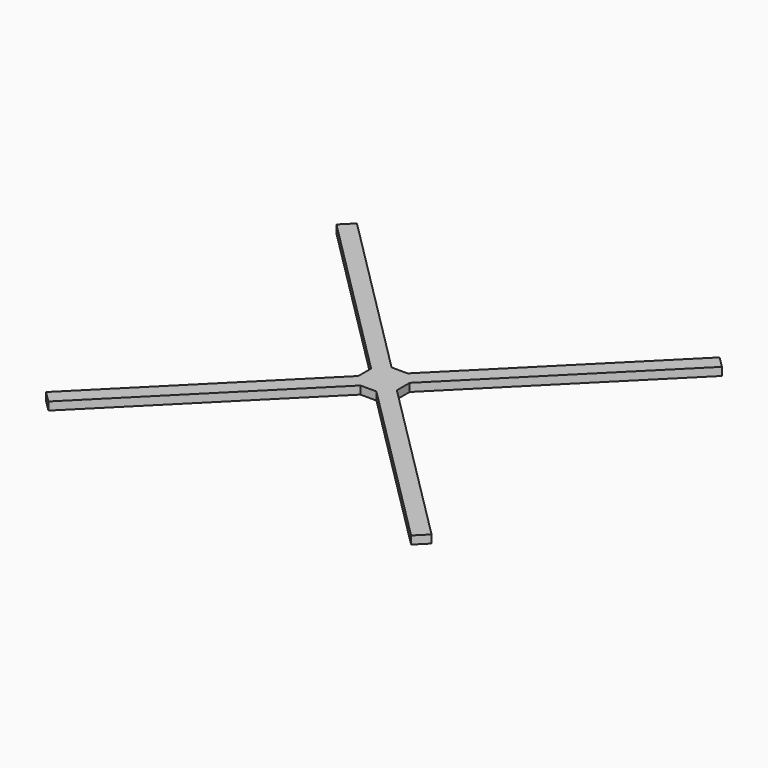
from build123d import *

# Parameters (mm, degrees)
F1_DEPTH = 10


with BuildPart() as f1:
    # F0 (on Top) → F1 (new body)
    with BuildSketch(Plane.XY):
        Polygon((10, 24.283557), (-10, 24.283557), (-225.526147, 239.809704), (-239.668283, 225.667568), (-24.000714, 10), (-24.000714, -10), (-239.668283, -225.667568), (-225.526147, -239.809704), (-10, -24.283557), (10, -24.283557), (225.526147, -239.809704), (239.668283, -225.667568), (24.000714, -10), (24.000714, 10), (239.668283, 225.667568), (225.526147, 239.809704), align=None)
    extrude(amount=F1_DEPTH)


solid = f1.part
